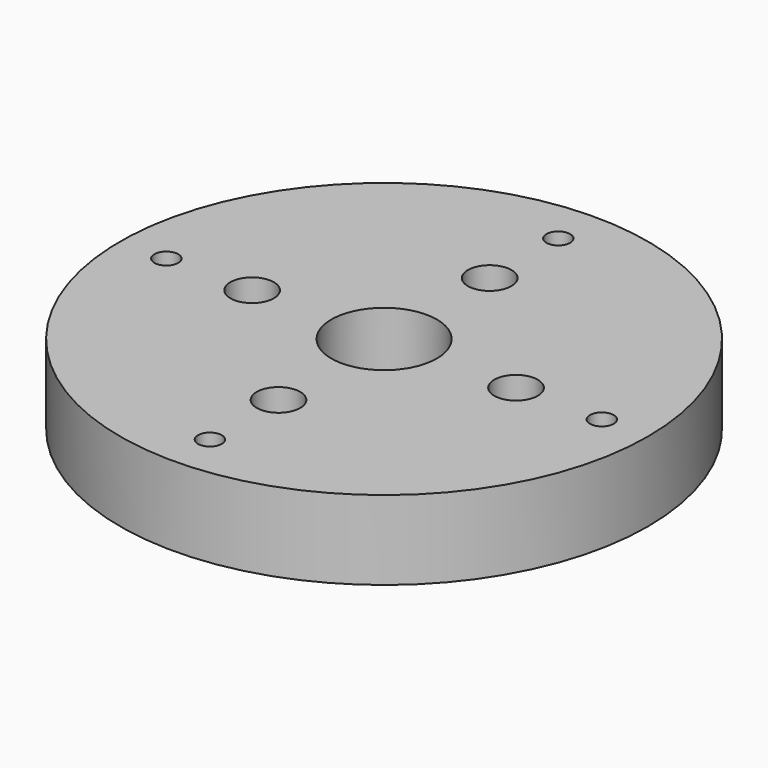
from build123d import *

# Parameters (mm, degrees)
F0_R     = 20
F0_R_2   = 0.9
F0_R_3   = 4
F1_DEPTH = 6
F2_D     = 3.3


with BuildPart() as f1:
    # F0 (on Top) → F1 (new body)
    with BuildSketch(Plane.XY):
        Circle(F0_R)
        with Locations((0, -16.5)):
            Circle(F0_R_2, mode=Mode.SUBTRACT)
        with Locations((-16.5, 0)):
            Circle(F0_R_2, mode=Mode.SUBTRACT)
        Circle(F0_R_3, mode=Mode.SUBTRACT)
        with Locations((16.5, 0)):
            Circle(F0_R_2, mode=Mode.SUBTRACT)
        with Locations((0, 16.5)):
            Circle(F0_R_2, mode=Mode.SUBTRACT)
    extrude(amount=F1_DEPTH)

    # F2 (through all)
    with Locations(Plane(origin=(0, 0, 0), x_dir=(1, 0, 0), z_dir=(0, 0, -1))):
        with Locations((-10, 0), (0, -10), (10, 0), (0, 10)):
            Hole(F2_D / 2)


solid = f1.part
